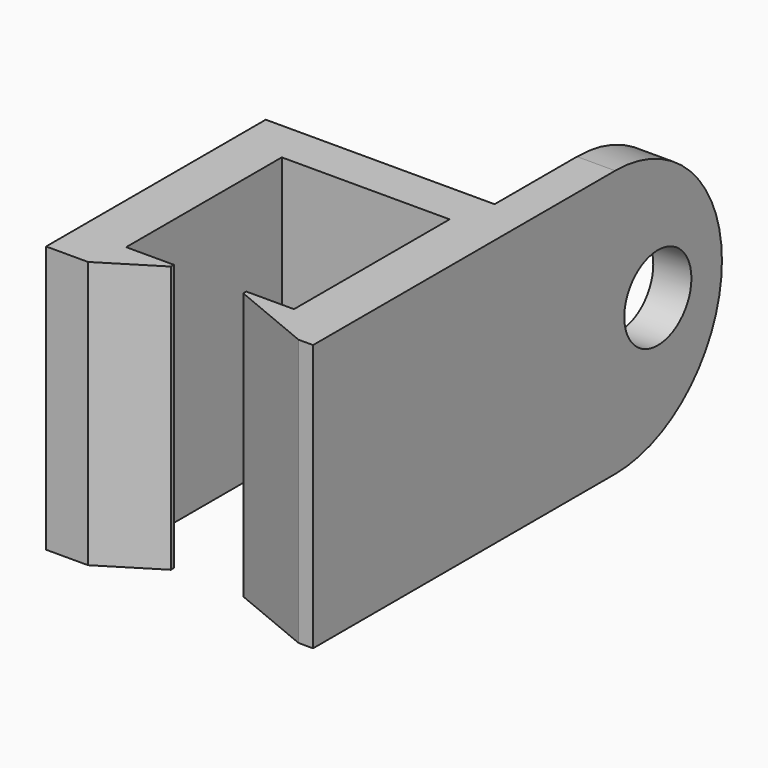
from build123d import *

# Parameters (mm, degrees)
F1_DEPTH = 3.5
F2_R     = 1.1
F3_DEPTH = 1


with BuildPart() as f1:
    # F0 (on Top) → F1 (new body, symmetric)
    with BuildSketch(Plane.XY):
        Polygon((-0.95, -6.2), (-2.2, -6.2), (-2.2, -1.1), (2.2, -1.1), (2.2, -6.2), (0.95, -6.2), (0.95, -6.3), (3.1198097037, -7.2), (3.5, -7.2), (3.5, 0), (-3.5, 0), (-3.5, -7.2), (-2.4009954992, -7.2), (-0.95, -6.3), align=None)
    extrude(amount=F1_DEPTH, both=True)

    # F2 (on face) → F3 (join)
    with BuildSketch(Plane.YZ.offset(3.5)):
        with BuildLine():
            Line((2.7, 3.5), (0, 3.5))
            Line((0, 3.5), (0, -3.5))
            Line((0, -3.5), (2.7, -3.5))
            ThreePointArc((2.7, -3.5), (6.2, 0), (2.7, 3.5))
        make_face()
        with Locations((4.1, 0)):
            Circle(F2_R, mode=Mode.SUBTRACT)
    extrude(amount=-F3_DEPTH)


solid = f1.part
